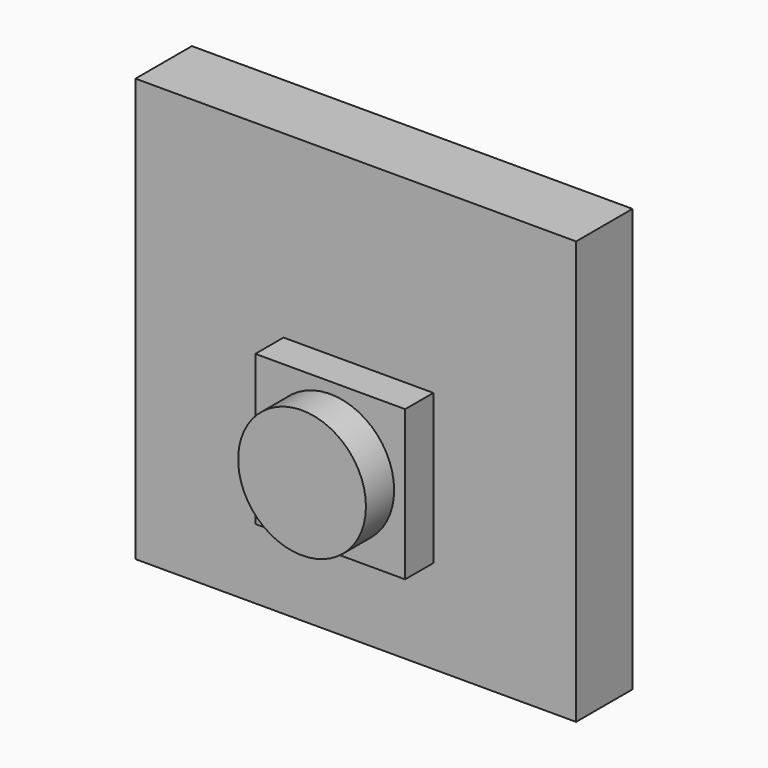
from build123d import *

# Parameters (mm, degrees)
F0_W     = 25
F0_H     = 24
F1_DEPTH = 2
F2_W     = 8.5
F2_H     = 8.5
F3_DEPTH = 2
F4_R     = 3.625
F5_DEPTH = 2


with BuildPart() as f1:
    # F0 (on Front) → F1 (new body, symmetric)
    with BuildSketch(Plane.XZ):
        Rectangle(F0_W, F0_H)
    extrude(amount=F1_DEPTH, both=True)

    # F2 (on face) → F3 (join)
    with BuildSketch(Plane.XZ.offset(2)):
        with Locations((0.15, -2.45)):
            Rectangle(F2_W, F2_H)
    extrude(amount=F3_DEPTH)

    # F4 (on face) → F5 (join)
    with BuildSketch(Plane.XZ.offset(4)):
        with Locations((0.15, -2.45)):
            Circle(F4_R)
    extrude(amount=F5_DEPTH)


solid = f1.part
